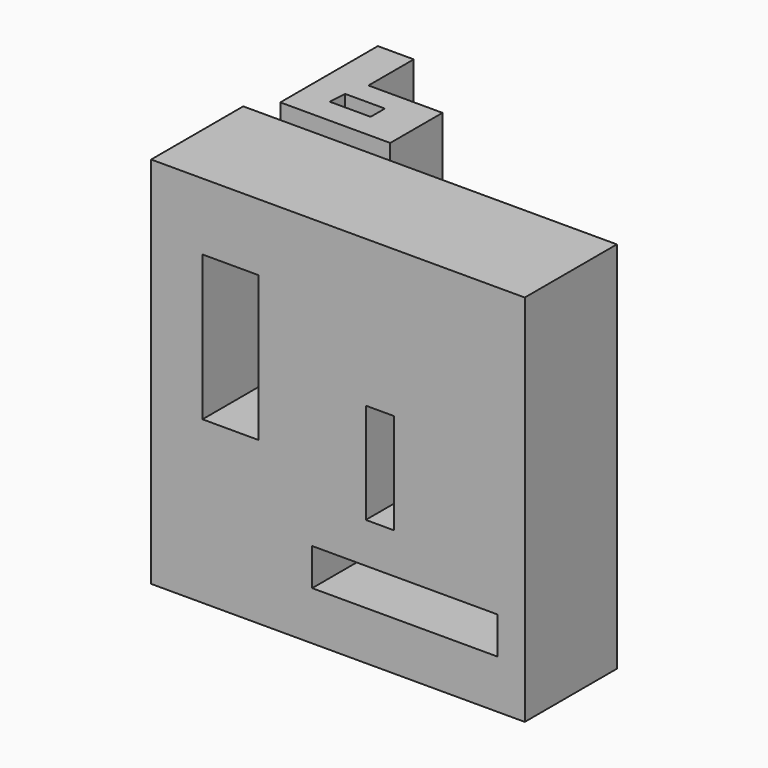
from build123d import *

# Parameters (mm, degrees)
F0_W     = 81.144039
F0_H     = 81.139479
F1_DEPTH = 25
F2_W     = 12.177514
F2_H     = 31.518272
F2_W_2   = 6.088759
F2_H_2   = 21.847893
F2_W_3   = 40.293246
F2_H_3   = 8.058649
F3_DEPTH = 25.001
F5_DEPTH = 20
F7_DEPTH = 25


with BuildPart() as f1:
    # F0 (on Front) → F1 (new body)
    with BuildSketch(Plane.XZ):
        with Locations((0.182928, -5.594364)):
            Rectangle(F0_W, F0_H)
    extrude(amount=F1_DEPTH)

    # F2 (on face) → F3 (cut, through all)
    with BuildSketch(Plane.XZ.offset(25)):
        with Locations((-23.144861, 4.690515)):
            Rectangle(F2_W, F2_H)
        with Locations((9.268815, -7.845161)):
            Rectangle(F2_W_2, F2_H_2)
        with Locations((14.730789, -31.573405)):
            Rectangle(F2_W_3, F2_H_3)
    extrude(amount=-F3_DEPTH, mode=Mode.SUBTRACT)


with BuildPart() as f5:
    # F4 (on Top) → F5 (new body)
    with BuildSketch(Plane.XY):
        Polygon((-46.562009, 54.007202), (-54.361735, 54.007202), (-54.361735, 27.535399), (-30.489841, 27.535399), (-30.489841, 41.716721), (-46.562009, 41.716721), align=None)
    extrude(amount=F5_DEPTH)

    # F6 (on face) → F7 (cut)
    with BuildSketch(Plane.XY.offset(20)):
        Polygon((-47.707614, 36.837734), (-47.99547, 32.957833), (-39.088558, 32.957833), (-39.088558, 36.837734), align=None)
    extrude(amount=-F7_DEPTH, mode=Mode.SUBTRACT)


solid = Compound([f1.part, f5.part])
